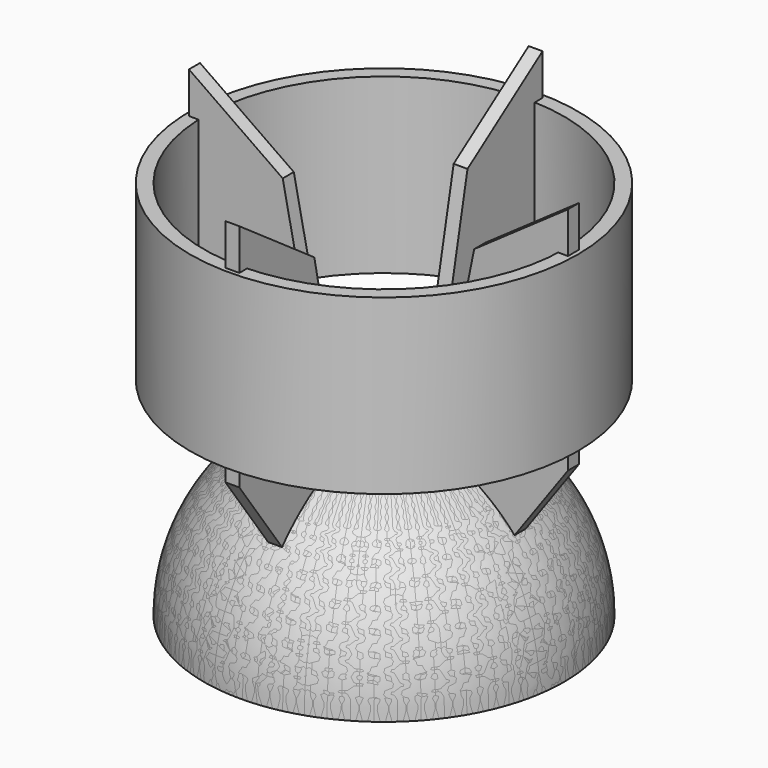
from build123d import *

# Parameters (mm, degrees)
F4_DEPTH      = 1
F4_DEPTH_BACK = 1
F6_COUNT      = 4
F7_R          = 28
F7_R_2        = 26
F8_DEPTH      = 25


with BuildPart() as f2:
    # F1 (on Front) → F2 (revolve)
    with BuildSketch(Plane.XZ):
        with BuildLine():
            Line((-26, 0), (0, 0))
            Line((0, 0), (0, 26))
            ThreePointArc((0, 26), (-18.384776, 18.384776), (-26, 0))
        make_face()
    revolve(axis=Axis((0, 0, 13), (0, 0, 1)))

    # F3 (on Front) → F4 (join, two sides)
    with BuildSketch(Plane.XZ) as f4_sk:
        Polygon((-10.347498, 19.596408), (-9.56049, 30.519061), (-13.827274, 51.481959), (-27.369679, 60.94309), (-27.369679, 27.731712), (-17.721336, 14.299707), align=None)
    extrude(amount=F4_DEPTH)
    extrude(f4_sk.sketch, amount=-F4_DEPTH_BACK)


with BuildPart() as f6_1:
    # F6: instance of F2
    add(f2.part.rotate(Axis((0, 0, 17.345409), (0, 0, 1)), 1 * 360 / F6_COUNT))


with BuildPart() as f6_2:
    # F6: instance of F2
    add(f2.part.rotate(Axis((0, 0, 17.345409), (0, 0, 1)), 2 * 360 / F6_COUNT))


with BuildPart() as f6_3:
    # F6: instance of F2
    add(f2.part.rotate(Axis((0, 0, 17.345409), (0, 0, 1)), 3 * 360 / F6_COUNT))


with BuildPart() as f8:
    # F7 (on offset) → F8 (new body)
    with BuildSketch(Plane.XY.offset(55)):
        Circle(F7_R)
        Circle(F7_R_2, mode=Mode.SUBTRACT)
    extrude(amount=-F8_DEPTH)


solid = Compound([f2.part, f6_1.part, f6_2.part, f6_3.part, f8.part])
